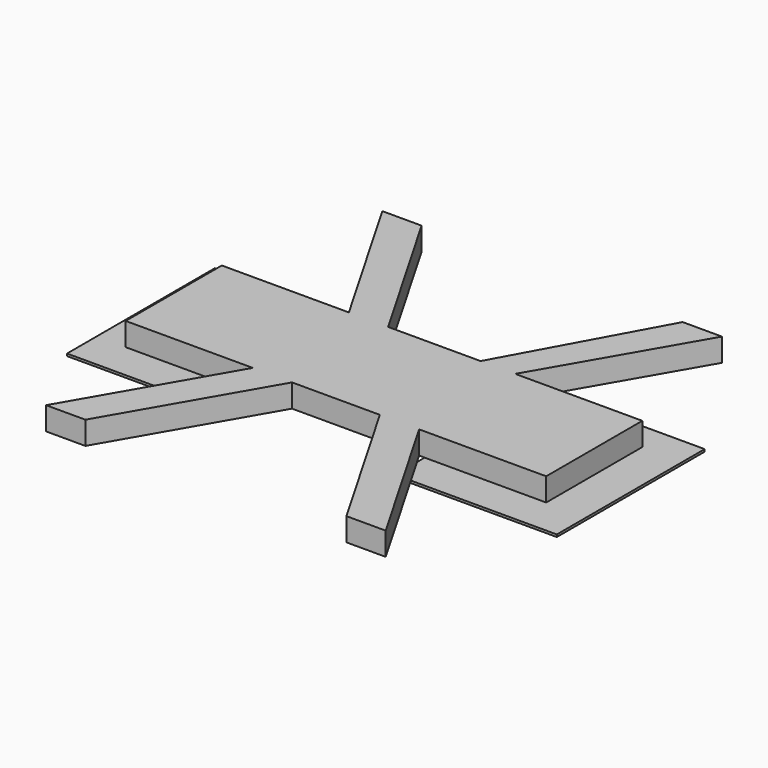
from build123d import *

# Parameters (mm, degrees)
F1_DEPTH = 10
F3_START = -2
F2_W     = 70
F2_H     = 80
F3_DEPTH = 1


with BuildPart() as f1:
    # F0 (on Top) → F1 (new body)
    with BuildSketch(Plane.XY):
        Polygon((55, 0), (0, 0), (0, -52), (55, -52), (72, -52), (110, -52), (127, -52), (182, -52), (182, 0), (127, 0), (112, 0), (72, 0), align=None)
        Polygon((17.5, 64.9519052838), (55, 0), (72, 0), (34.5, 64.9519052838), align=None)
        Polygon((72, -52), (55, -52), (17.5, -116.9519052838), (34.5, -116.9519052838), align=None)
        Polygon((147.5, 64.9519052838), (112, 0), (127, 0), (164.5, 64.9519052838), align=None)
        Polygon((127, -52), (110, -52), (147.5, -116.9519052838), (164.5, -116.9519052838), align=None)
    extrude(amount=F1_DEPTH)


with BuildPart() as f3:
    # F2 (on Top) → F3 (new body)
    with BuildSketch(Plane.XY.offset(F3_START)):
        with Locations((20, -25)):
            Rectangle(F2_W, F2_H)
    extrude(amount=-F3_DEPTH)


with BuildPart() as f3b:
    # F2 (on Top) → F3, piece 2 (new body)
    with BuildSketch(Plane.XY.offset(F3_START)):
        with Locations((162, -25)):
            Rectangle(F2_W, F2_H)
    extrude(amount=-F3_DEPTH)


solid = Compound([f1.part, f3.part, f3b.part])
